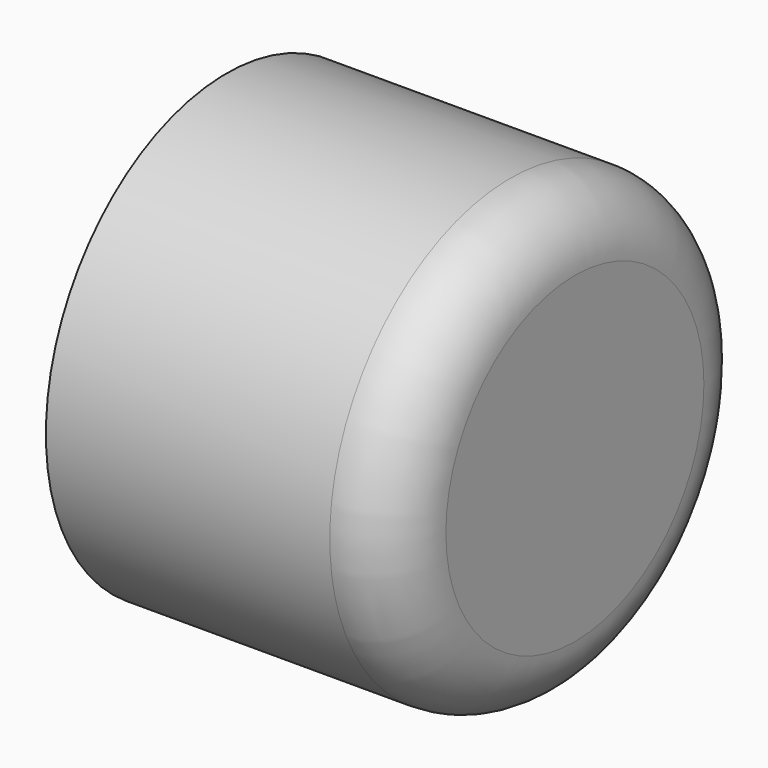
from build123d import *

# Parameters (mm, degrees)
F0_R     = 1.75
F1_DEPTH = 1.35
F2_R     = 0.5


with BuildPart() as f1:
    # F0 (on Right) → F1 (new body, symmetric)
    with BuildSketch(Plane.YZ):
        Circle(F0_R)
    extrude(amount=F1_DEPTH, both=True)

    # F2
    f2_edges = [f1.edges().sort_by_distance(p)[0] for p in [
        (1.35, -1.75, 0),
    ]]
    fillet(f2_edges, radius=F2_R)


solid = f1.part
